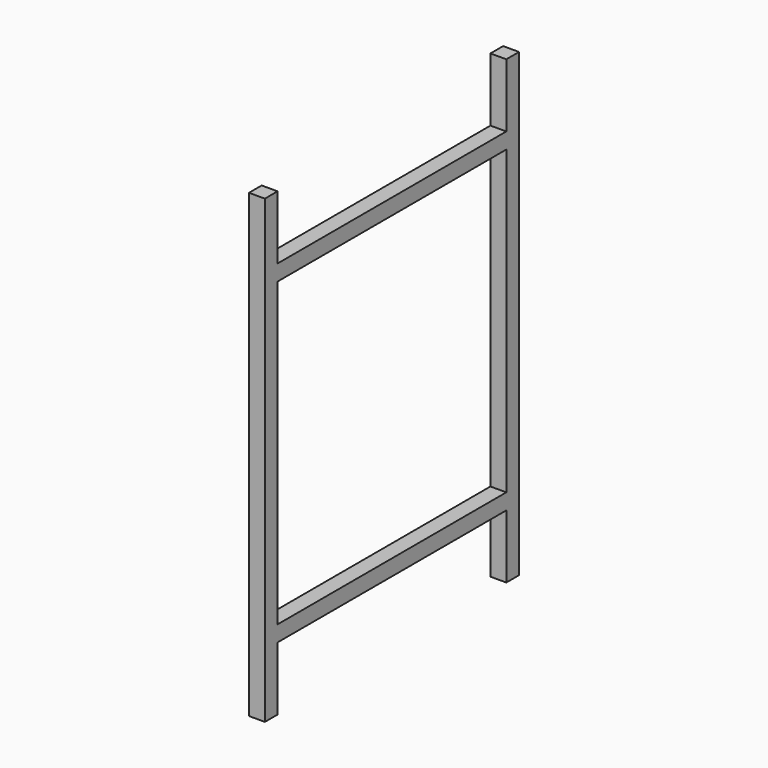
from build123d import *

# Parameters (mm, degrees)
F0_W     = 457.2
F0_H     = 482.6
F1_DEPTH = 25.4


with BuildPart() as f1:
    # F0 (on Right) → F1 (new body)
    with BuildSketch(Plane.YZ):
        Polygon((0, 736.6), (0, 0), (25.4, 0), (25.4, 101.6), (482.6, 101.6), (482.6, 0), (508, 0), (508, 736.6), (482.6, 736.6), (482.6, 635), (25.4, 635), (25.4, 736.6), align=None)
        with Locations((254, 368.3)):
            Rectangle(F0_W, F0_H, mode=Mode.SUBTRACT)
    extrude(amount=F1_DEPTH)


solid = f1.part
